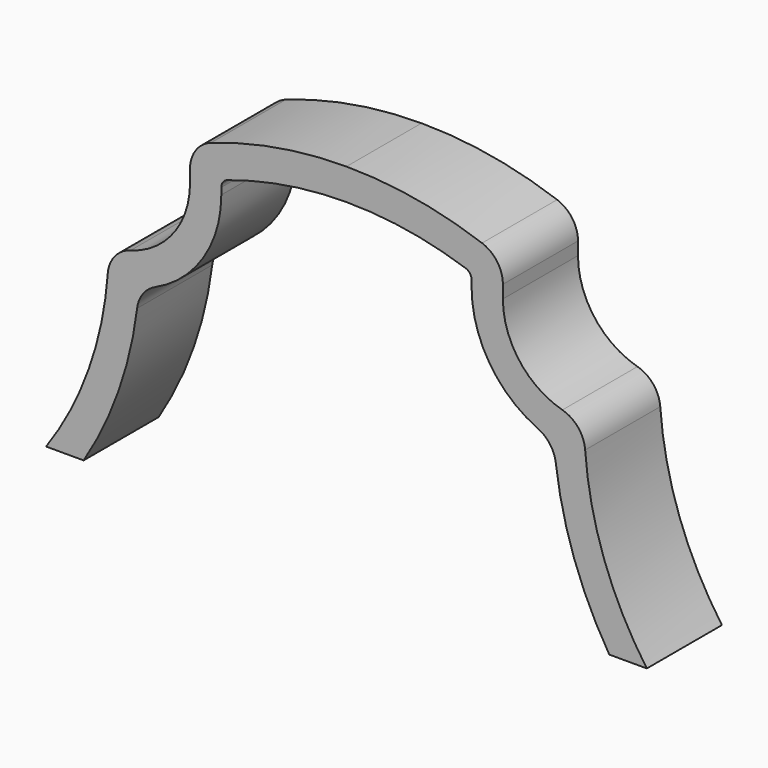
from build123d import *

# Parameters (mm, degrees)
F1_DEPTH = 3.81


with BuildPart() as f1:
    # F0 (on Front) → F1 (new body)
    with BuildSketch(Plane.XZ):
        with BuildLine():
            Line((0, 13.97), (0, 12.7))
            ThreePointArc((0, 12.7), (2.44993, 12.50179), (4.836134, 11.912315))
            ThreePointArc((4.836134, 11.912315), (5.012692, 11.782258), (5.08, 11.573553))
            Line((5.08, 11.573553), (5.08, 11.303))
            ThreePointArc((5.08, 11.303), (5.808417, 8.827105), (7.761565, 7.140136))
            ThreePointArc((7.761565, 7.140136), (8.259733, 6.735968), (8.496814, 6.139886))
            ThreePointArc((8.496814, 6.139886), (9.248672, 2.951797), (10.668565, 0))
            Line((10.668565, 0), (12.192, 0))
            ThreePointArc((12.192, 0), (10.463766, 3.325321), (9.688752, 6.991914))
            ThreePointArc((9.688752, 6.991914), (9.405127, 7.703635), (8.763751, 8.122714))
            ThreePointArc((8.763751, 8.122714), (7.021772, 9.306728), (6.35, 11.303))
            Line((6.35, 11.303), (6.35, 11.82841))
            ThreePointArc((6.35, 11.82841), (6.116951, 12.561645), (5.503333, 13.025777))
            ThreePointArc((5.503333, 13.025777), (2.791874, 13.732232), (0, 13.97))
        make_face()
        with BuildLine():
            ThreePointArc((-4.836134, 11.912315), (-2.44993, 12.50179), (0, 12.7))
            Line((0, 12.7), (0, 13.97))
            ThreePointArc((0, 13.97), (-2.791874, 13.732232), (-5.503333, 13.025777))
            ThreePointArc((-5.503333, 13.025777), (-6.116951, 12.561645), (-6.35, 11.82841))
            Line((-6.35, 11.82841), (-6.35, 11.303))
            ThreePointArc((-6.35, 11.303), (-7.021772, 9.306728), (-8.763751, 8.122714))
            ThreePointArc((-8.763751, 8.122714), (-9.405127, 7.703635), (-9.688752, 6.991914))
            ThreePointArc((-9.688752, 6.991914), (-10.463766, 3.325321), (-12.192, 0))
            Line((-12.192, 0), (-10.668565, 0))
            ThreePointArc((-10.668565, 0), (-9.248672, 2.951797), (-8.496814, 6.139886))
            ThreePointArc((-8.496814, 6.139886), (-8.259733, 6.735968), (-7.761565, 7.140136))
            ThreePointArc((-7.761565, 7.140136), (-5.808417, 8.827105), (-5.08, 11.303))
            Line((-5.08, 11.303), (-5.08, 11.573553))
            ThreePointArc((-5.08, 11.573553), (-5.012692, 11.782258), (-4.836134, 11.912315))
        make_face()
    extrude(amount=F1_DEPTH)


solid = f1.part
